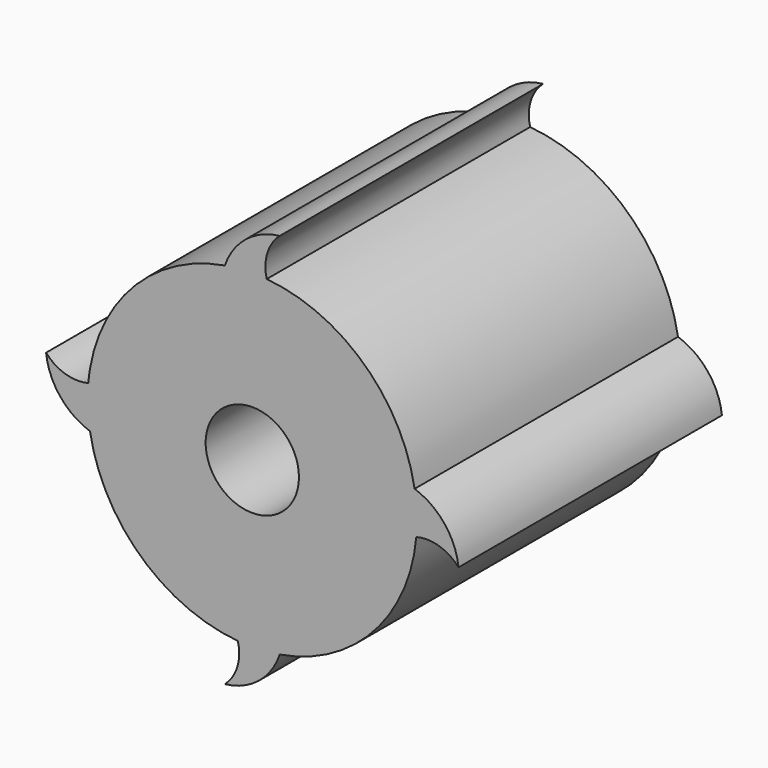
from build123d import *

# Parameters (mm, degrees)
F1_DEPTH = 76.2
F2_R     = 10.795
F3_DEPTH = 76.201


with BuildPart() as f1:
    # F0 (on Front) → F1 (new body)
    with BuildSketch(Plane.XZ):
        with BuildLine():
            ThreePointArc((-6.35, 37.567107), (-1.519142, 38.069702), (3.336403, 37.953635))
            ThreePointArc((3.336403, 37.953635), (3.464197, 43.265579), (6.35, 47.727107))
            ThreePointArc((6.35, 47.727107), (-1.480659, 44.497931), (-6.35, 37.567107))
        make_face()
        with BuildLine():
            ThreePointArc((37.953635, -3.336403), (38.063391, -1.669806), (38.1, 0))
            ThreePointArc((38.1, 0), (37.966543, 3.186161), (37.567107, 6.35))
            ThreePointArc((37.567107, 6.35), (25.845149, 27.99354), (3.336403, 37.953635))
            ThreePointArc((3.336403, 37.953635), (-1.519142, 38.069702), (-6.35, 37.567107))
            ThreePointArc((-6.35, 37.567107), (-26.940768, 26.940768), (-37.567107, 6.35))
            ThreePointArc((-37.567107, 6.35), (-37.790423, 4.847056), (-37.953635, 3.336403))
            ThreePointArc((-37.953635, 3.336403), (-38.069702, -1.519142), (-37.567107, -6.35))
            ThreePointArc((-37.567107, -6.35), (-25.845149, -27.99354), (-3.336403, -37.953635))
            ThreePointArc((-3.336403, -37.953635), (1.519142, -38.069702), (6.35, -37.567107))
            ThreePointArc((6.35, -37.567107), (27.99354, -25.845149), (37.953635, -3.336403))
        make_face()
        with BuildLine():
            ThreePointArc((-47.727107, 6.35), (-44.497931, -1.480659), (-37.567107, -6.35))
            ThreePointArc((-37.567107, -6.35), (-38.069702, -1.519142), (-37.953635, 3.336403))
            ThreePointArc((-37.953635, 3.336403), (-43.265579, 3.464197), (-47.727107, 6.35))
        make_face()
        with BuildLine():
            ThreePointArc((37.567107, 6.35), (37.966543, 3.186161), (38.1, 0))
            ThreePointArc((38.1, 0), (38.063391, -1.669806), (37.953635, -3.336403))
            ThreePointArc((37.953635, -3.336403), (43.265579, -3.464197), (47.727107, -6.35))
            ThreePointArc((47.727107, -6.35), (44.497931, 1.480659), (37.567107, 6.35))
        make_face()
        with BuildLine():
            ThreePointArc((-6.35, -47.727107), (1.480659, -44.497931), (6.35, -37.567107))
            ThreePointArc((6.35, -37.567107), (1.519142, -38.069702), (-3.336403, -37.953635))
            ThreePointArc((-3.336403, -37.953635), (-3.464197, -43.265579), (-6.35, -47.727107))
        make_face()
    extrude(amount=F1_DEPTH)

    # F2 (on face) → F3 (cut, through all)
    with BuildSketch(Plane.XZ.offset(76.2)):
        Circle(F2_R)
    extrude(amount=-F3_DEPTH, mode=Mode.SUBTRACT)


solid = f1.part
